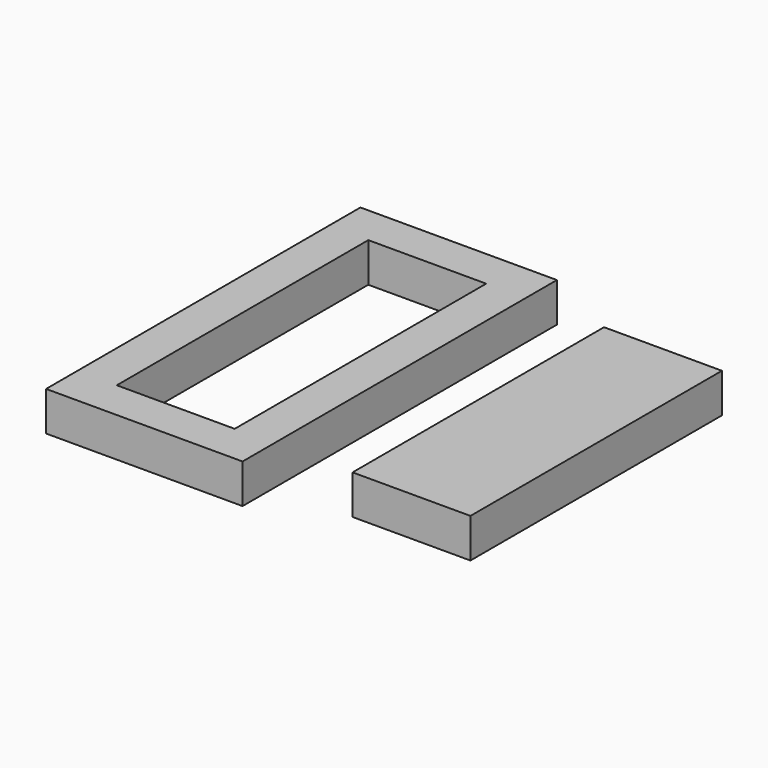
from build123d import *

# Parameters (mm, degrees)
F0_W     = 50
F0_H     = 100
F0_W_2   = 30
F0_H_2   = 80
F1_DEPTH = 10


with BuildPart() as f1:
    # F0 (on Top) → F1 (new body)
    with BuildSketch(Plane.XY):
        Rectangle(F0_W, F0_H)
        Rectangle(F0_W_2, F0_H_2, mode=Mode.SUBTRACT)
        with Locations((60, 0)):
            Rectangle(F0_W_2, F0_H_2)
    extrude(amount=F1_DEPTH)


solid = f1.part
